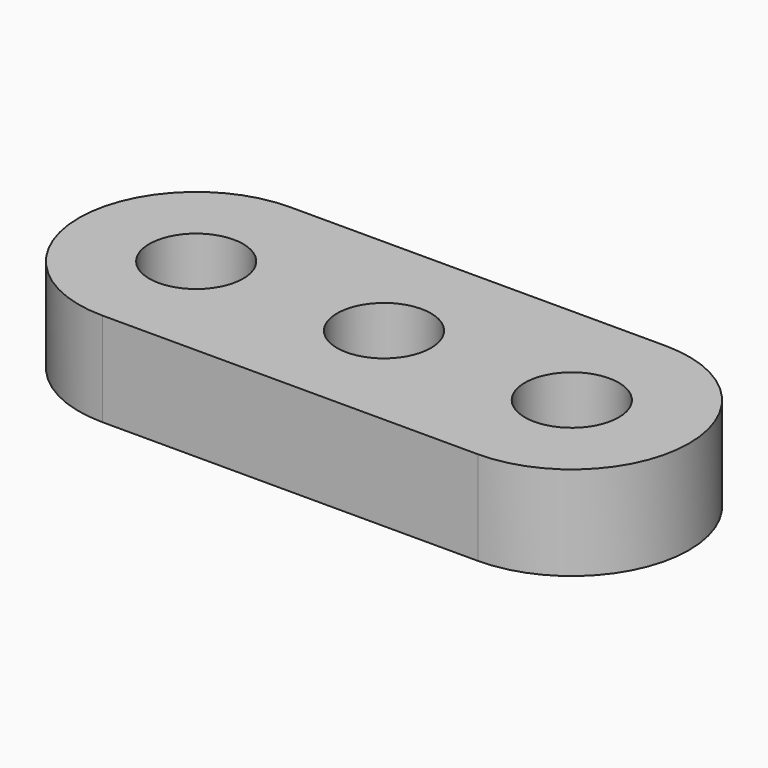
from build123d import *

# Parameters (mm, degrees)
F0_R     = 0.5
F1_DEPTH = 1


with BuildPart() as f1:
    # F0 (on Top) → F1 (new body)
    with BuildSketch(Plane.XY):
        with BuildLine():
            ThreePointArc((-2, 1.25), (-3.25, 0), (-2, -1.25))
            Line((-2, -1.25), (2, -1.25))
            ThreePointArc((2, -1.25), (3.25, 0), (2, 1.25))
            Line((2, 1.25), (-2, 1.25))
        make_face()
        with Locations((-2, 0)):
            Circle(F0_R, mode=Mode.SUBTRACT)
        Circle(F0_R, mode=Mode.SUBTRACT)
        with Locations((2, 0)):
            Circle(F0_R, mode=Mode.SUBTRACT)
    extrude(amount=F1_DEPTH)


solid = f1.part
